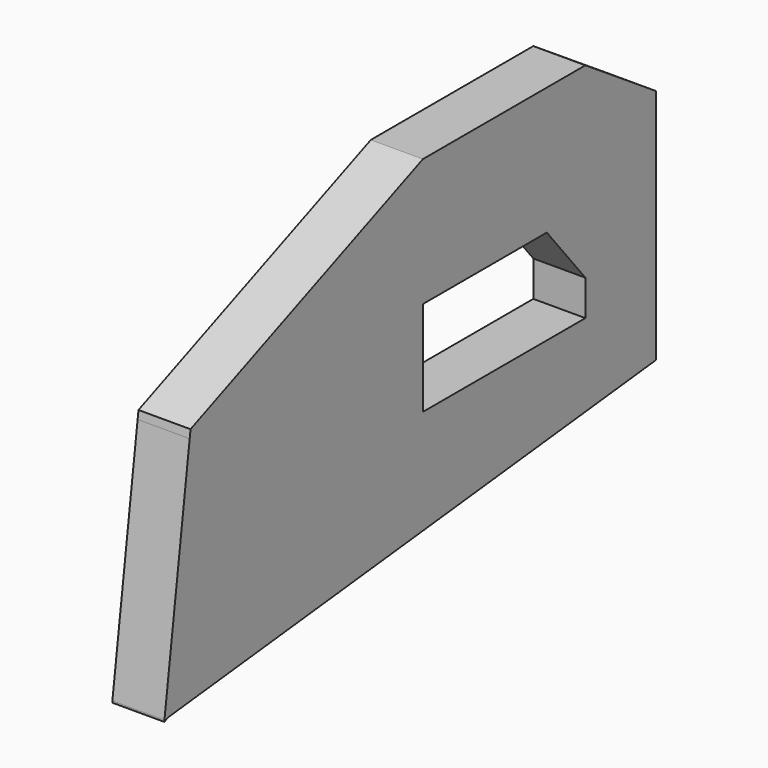
from build123d import *

# Parameters (mm, degrees)
F1_DEPTH = 25


with BuildPart() as f1:
    # F0 (on Right) → F1 (new body)
    with BuildSketch(Plane.YZ):
        Polygon((50.7914237678, 49.0828417242), (47.3742634058, 49.0828417242), (-46.7529594898, 49.0828417242), (-46.7529594898, -12.1967571052), (27.6393722743, -12.1967571052), align=None)
        Polygon((-46.7529594898, -12.1967571052), (-46.7529594898, 49.0828417242), (-186.2022727728, -8.4043648094), (-186.711434477, -12.1967571052), align=None)
        Polygon((93.0533483624, 21.0719704628), (50.7914237678, 49.0828417242), (50.7914237678, -40.7016065636), (93.0533483624, -92.734567821), align=None)
        Polygon((50.7914237678, -40.7016065636), (50.7914237678, 49.0828417242), (27.6393722743, -12.1967571052), align=None)
        Polygon((-46.7529594898, -57.7810667455), (-46.7529594898, -12.1967571052), (-186.711434477, -12.1967571052), (-201.8551233379, -124.9915892651), (-199.729913905, -124.7591343415), align=None)
        Polygon((93.0533483624, -92.734567821), (50.7914237678, -40.7016065636), (50.7914237678, -57.7810667455), align=None)
        Polygon((50.7914237678, -57.7810667455), (-46.7529594898, -57.7810667455), (-199.729913905, -124.7591343415), (93.0533483624, -92.734567821), align=None)
        Polygon((-201.9546926022, -125.7332116365), (-199.729913905, -124.7591343415), (-201.8551233379, -124.9915892651), align=None)
    extrude(amount=F1_DEPTH)


solid = f1.part
